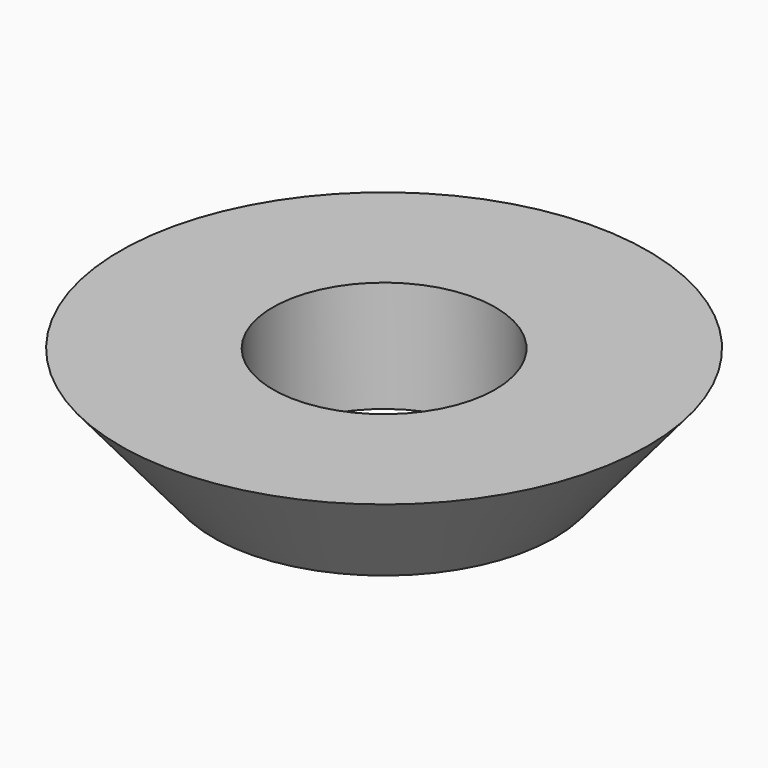
from build123d import *

# Parameters (mm, degrees)
F0_R     = 2.3
F1_DEPTH = 1.5
F1_TAPER = -40
F2_R     = 1.5
F3_DEPTH = 25


with BuildPart() as f1:
    # F0 (on Top) → F1 (new body)
    with BuildSketch(Plane.XY):
        Circle(F0_R)
    extrude(amount=F1_DEPTH, taper=F1_TAPER)

    # F2 (on face) → F3 (cut)
    with BuildSketch(Plane.XY.offset(1.5)):
        Circle(F2_R)
    extrude(amount=-F3_DEPTH, mode=Mode.SUBTRACT)


solid = f1.part
